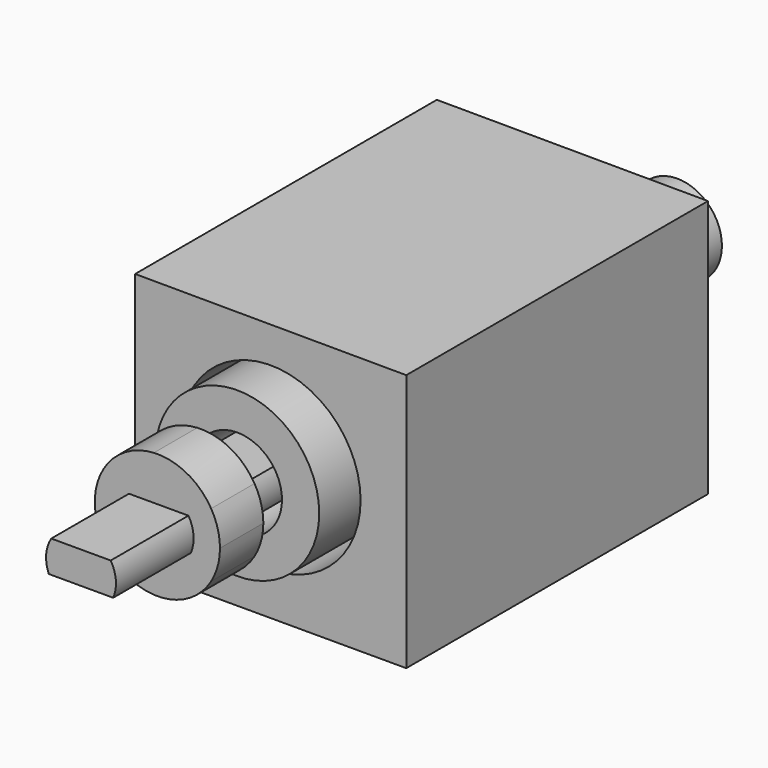
from build123d import *

# Parameters (mm, degrees)
F0_R          = 18.1033036262
F1_DEPTH      = 75.946
F2_R          = 16.4905968826
F2_R_2        = 8.9933843483
F3_DEPTH      = 84.582
F5_DEPTH      = 123.698
F5_DEPTH_BACK = 17.018
F4_R          = 10.6982872112
F6_DEPTH      = 25.4
F7_DEPTH      = 16.764
F8_R          = 6.2538305337
F9_DEPTH      = 25.4
F11_DEPTH     = 26.162
F13_START     = 93.218
F13_DEPTH     = 10.922


with BuildPart() as f1:
    # F0 (on Front) → F1 (new body)
    with BuildSketch(Plane.XZ):
        Polygon((-10.2382469922, 66.7381957173), (-64.8422315717, 66.9277980924), (-64.8422315717, 14.7885782644), (-10.2382469922, 14.7885782644), align=None)
        with Locations((-37.5402383506, 41.5217764676)):
            Circle(F0_R, mode=Mode.SUBTRACT)
    extrude(amount=F1_DEPTH)


with BuildPart() as f3:
    # F2 (on Front) → F3 (new body)
    with BuildSketch(Plane.XZ):
        with Locations((-37.3506397009, 42.2801636159)):
            Circle(F2_R)
        with Locations((-37.3506397009, 42.2801636159)):
            Circle(F2_R_2, mode=Mode.SUBTRACT)
    extrude(amount=F3_DEPTH)


with BuildPart() as f5:
    # F4 (on Front) → F5 (new body, two sides)
    with BuildSketch(Plane.XZ) as f5_sk:
        with BuildLine():
            ThreePointArc((-31.0614962405, 39.9119837554), (-30.6441246123, 41.2575880214), (-30.5031173675, 42.6593607824))
            ThreePointArc((-30.5031173675, 42.6593607824), (-30.7713050095, 44.5837166187), (-31.5554293296, 46.3614171127))
            Line((-31.5554293296, 46.3614171127), (-35.7555635273, 46.3614171127))
            Line((-35.7555635273, 46.3614171127), (-39.5475067198, 46.3614171127))
            Line((-39.5475067198, 46.3614171127), (-43.5270319157, 46.3614171127))
            ThreePointArc((-43.5270319157, 46.3614171127), (-44.5587937734, 43.1968043768), (-44.0209650048, 39.9119837554))
            Line((-44.0209650048, 39.9119837554), (-39.926700294, 39.9119837554))
            Line((-39.926700294, 39.9119837554), (-35.7555635273, 39.9119837554))
            Line((-35.7555635273, 39.9119837554), (-31.0614962405, 39.9119837554))
        make_face()
    extrude(amount=F5_DEPTH)
    extrude(f5_sk.sketch, amount=-F5_DEPTH_BACK)

    # F12 (on Front) → F13 (join)
    with BuildSketch(Plane.XZ.offset(F13_START)):
        with BuildLine():
            ThreePointArc((-26.9761793339, 36.2130589783), (-25.6544752033, 39.3165140209), (-25.2031331484, 42.6593609154))
            ThreePointArc((-25.2031331484, 42.6593609154), (-25.6544752033, 46.0022078099), (-26.9761793339, 49.1056628525))
            Line((-26.9761793339, 49.1056628525), (-28.9843862384, 42.469765991))
            Line((-28.9843862384, 42.469765991), (-26.9761793339, 36.2130589783))
        make_face()
        with BuildLine():
            Line((-32.8158922493, 50.8729223566), (-26.9761793339, 49.1056628525))
            ThreePointArc((-26.9761793339, 49.1056628525), (-31.8842690083, 53.7856309741), (-38.5070915076, 55.2449691852))
            Line((-38.5070915076, 55.2449691852), (-32.8158922493, 50.8729223566))
        make_face()
        Polygon((-28.9843862384, 42.469765991), (-26.9761793339, 49.1056628525), (-32.8158922493, 50.8729223566), (-38.5070915076, 55.2449691852), (-43.243739754, 49.1056628525), (-48.6400909698, 49.1056628525), (-46.4668907225, 42.469765991), (-48.6400909698, 36.2130589783), (-43.243739754, 34.338694113), (-38.4988303115, 30.0732965702), (-32.8158922493, 34.338694113), (-26.9761793339, 36.2130589783), align=None)
        with BuildLine():
            ThreePointArc((-38.4988303115, 30.0732965702), (-31.8806177506, 31.5350356341), (-26.9761793339, 36.2130589783))
            Line((-26.9761793339, 36.2130589783), (-32.8158922493, 34.338694113))
            Line((-32.8158922493, 34.338694113), (-38.4988303115, 30.0732965702))
        make_face()
        with BuildLine():
            Line((-43.243739754, 49.1056628525), (-38.5070915076, 55.2449691852))
            ThreePointArc((-38.5070915076, 55.2449691852), (-44.3398466007, 53.4400297748), (-48.6400909698, 49.1056628525))
            Line((-48.6400909698, 49.1056628525), (-43.243739754, 49.1056628525))
        make_face()
        with BuildLine():
            ThreePointArc((-48.6400909698, 36.2130589783), (-44.3363080965, 31.8765489672), (-38.4988303115, 30.0732965702))
            Line((-38.4988303115, 30.0732965702), (-43.243739754, 34.338694113))
            Line((-43.243739754, 34.338694113), (-48.6400909698, 36.2130589783))
        make_face()
        with BuildLine():
            Line((-46.4668907225, 42.469765991), (-48.6400909698, 49.1056628525))
            ThreePointArc((-48.6400909698, 49.1056628525), (-50.4131371553, 42.6593609154), (-48.6400909698, 36.2130589783))
            Line((-48.6400909698, 36.2130589783), (-46.4668907225, 42.469765991))
        make_face()
    extrude(amount=F13_DEPTH)


with BuildPart() as f6:
    # F4 (on Front) → F6 (new body)
    with BuildSketch(Plane.XZ):
        with Locations((-37.5412306227, 42.6593607824)):
            Circle(F4_R)
        with BuildLine():
            ThreePointArc((-31.5554293296, 46.3614171127), (-30.7713050095, 44.5837166187), (-30.5031173675, 42.6593607824))
            ThreePointArc((-30.5031173675, 42.6593607824), (-30.6441246123, 41.2575880214), (-31.0614962405, 39.9119837554))
            ThreePointArc((-31.0614962405, 39.9119837554), (-32.9367743709, 37.3363897306), (-35.7555635273, 35.8515394557))
            ThreePointArc((-35.7555635273, 35.8515394557), (-37.8552648698, 35.6282569798), (-39.926700294, 36.0378373445))
            ThreePointArc((-39.926700294, 36.0378373445), (-42.378607322, 37.5471376984), (-44.0209650048, 39.9119837554))
            ThreePointArc((-44.0209650048, 39.9119837554), (-44.5587937734, 43.1968043768), (-43.5270319157, 46.3614171127))
            ThreePointArc((-43.5270319157, 46.3614171127), (-41.8173128264, 48.2495449636), (-39.5475067198, 49.405462947))
            ThreePointArc((-39.5475067198, 49.405462947), (-37.6557705575, 49.6965419507), (-35.7555635273, 49.4671821092))
            ThreePointArc((-35.7555635273, 49.4671821092), (-33.3566907099, 48.3183946144), (-31.5554293296, 46.3614171127))
        make_face(mode=Mode.SUBTRACT)
    extrude(amount=F6_DEPTH)


with BuildPart() as f7:
    # F4 (on Front) → F7 (new body)
    with BuildSketch(Plane.XZ):
        with Locations((-37.5412306227, 42.6593607824)):
            Circle(F4_R)
        with BuildLine():
            ThreePointArc((-31.5554293296, 46.3614171127), (-30.7713050095, 44.5837166187), (-30.5031173675, 42.6593607824))
            ThreePointArc((-30.5031173675, 42.6593607824), (-30.6441246123, 41.2575880214), (-31.0614962405, 39.9119837554))
            ThreePointArc((-31.0614962405, 39.9119837554), (-32.9367743709, 37.3363897306), (-35.7555635273, 35.8515394557))
            ThreePointArc((-35.7555635273, 35.8515394557), (-37.8552648698, 35.6282569798), (-39.926700294, 36.0378373445))
            ThreePointArc((-39.926700294, 36.0378373445), (-42.378607322, 37.5471376984), (-44.0209650048, 39.9119837554))
            ThreePointArc((-44.0209650048, 39.9119837554), (-44.5587937734, 43.1968043768), (-43.5270319157, 46.3614171127))
            ThreePointArc((-43.5270319157, 46.3614171127), (-41.8173128264, 48.2495449636), (-39.5475067198, 49.405462947))
            ThreePointArc((-39.5475067198, 49.405462947), (-37.6557705575, 49.6965419507), (-35.7555635273, 49.4671821092))
            ThreePointArc((-35.7555635273, 49.4671821092), (-33.3566907099, 48.3183946144), (-31.5554293296, 46.3614171127))
        make_face(mode=Mode.SUBTRACT)
    extrude(amount=-F7_DEPTH)


with BuildPart() as f9:
    # F8 (on Top) → F9 (new body)
    with BuildSketch(Plane.XY):
        with Locations((-37.8851480782, 7.9380348325)):
            Circle(F8_R)
    extrude(amount=F9_DEPTH)


with BuildPart() as f11:
    # F2 (on Front) → F11 (new body)
    with BuildSketch(Plane.XZ):
        with Locations((-37.3506397009, 42.2801636159)):
            Circle(F2_R_2)
    extrude(amount=-F11_DEPTH)


solid = Compound([f1.part, f3.part, f5.part, f6.part, f7.part, f11.part])
